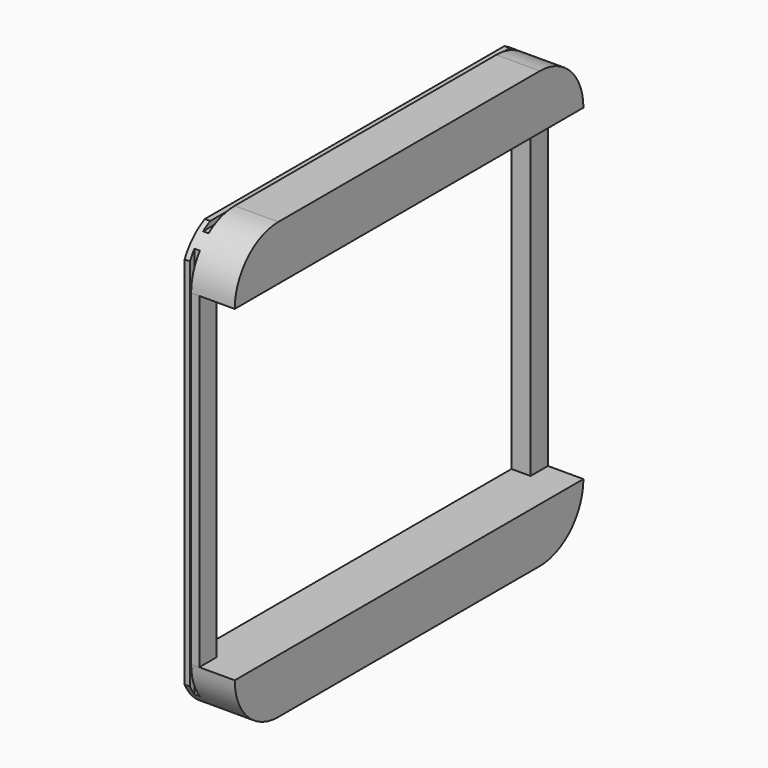
from build123d import *

# Parameters (mm, degrees)
F0_W      = 160
F0_H      = 160
F1_DEPTH  = 20
F2_R      = 20
F3_W      = 144
F3_H      = 120
F4_DEPTH  = 60
F5_W      = 160
F5_H      = 120
F6_DEPTH  = 13
F7_W      = 2
F7_H      = 2
F8_DEPTH  = 153.4
F9_W      = 2
F9_H      = 2
F9_W_2    = 3.241547
F9_H_2    = 2.78797
F10_DEPTH = 165


with BuildPart() as f1:
    # F0 (on Right) → F1 (new body)
    with BuildSketch(Plane.YZ):
        with Locations((27.151147, 20.321211)):
            Rectangle(F0_W, F0_H)
    extrude(amount=F1_DEPTH)

    # F2
    f2_edges = [f1.edges().sort_by_distance(p)[0] for p in [
        (10, -52.848853, 100.321211),
        (10, 107.151147, 100.321211),
        (10, -52.848853, -59.678789),
        (10, 107.151147, -59.678789),
    ]]
    fillet(f2_edges, radius=F2_R)

    # F3 (on face) → F4 (cut)
    with BuildSketch(Plane.YZ.offset(20)):
        with Locations((27.151147, 20.321211)):
            Rectangle(F3_W, F3_H)
    extrude(amount=-F4_DEPTH, mode=Mode.SUBTRACT)

    # F5 (on face) → F6 (cut)
    with BuildSketch(Plane.YZ.offset(20)):
        with Locations((27.151147, 20.321211)):
            Rectangle(F5_W, F5_H)
    extrude(amount=-F6_DEPTH, mode=Mode.SUBTRACT)

    # F7 (on face) → F8 (cut)
    with BuildSketch(Plane.XY.offset(100.321211)):
        Polygon((2, -52.848853), (2, -57.705119), (4, -57.705119), (4, -48.848853), (2, -48.848853), (2, -50.848853), align=None)
        with Locations((1, -51.848853)):
            Rectangle(F7_W, F7_H)
        Polygon((2, 103.151147), (4, 103.151147), (4, 113.693945), (2, 113.693945), (2, 107.151147), (2, 105.151147), align=None)
        with Locations((1, 106.151147)):
            Rectangle(F7_W, F7_H)
    extrude(amount=-F8_DEPTH, mode=Mode.SUBTRACT)

    # F9 (on face) → F10 (cut)
    with BuildSketch(Plane(origin=(0, 107.151147, 0), x_dir=(-1, 0, 0), z_dir=(0, 1, 0))):
        Polygon((-4, 96.321211), (-2, 96.321211), (-2, 98.321211), (-2, 100.321211), (-2, 102.704816), (-4, 102.704816), align=None)
        with Locations((-1, 99.321211)):
            Rectangle(F9_W, F9_H)
        Polygon((-2, -57.678789), (-2, -55.678789), (-4, -55.678789), (-4, -64.467512), (-2, -64.467512), (-2, -60.466759), align=None)
        with Locations((-0.379227, -59.072774)):
            Rectangle(F9_W_2, F9_H_2)
    extrude(amount=-F10_DEPTH, mode=Mode.SUBTRACT)


solid = f1.part
